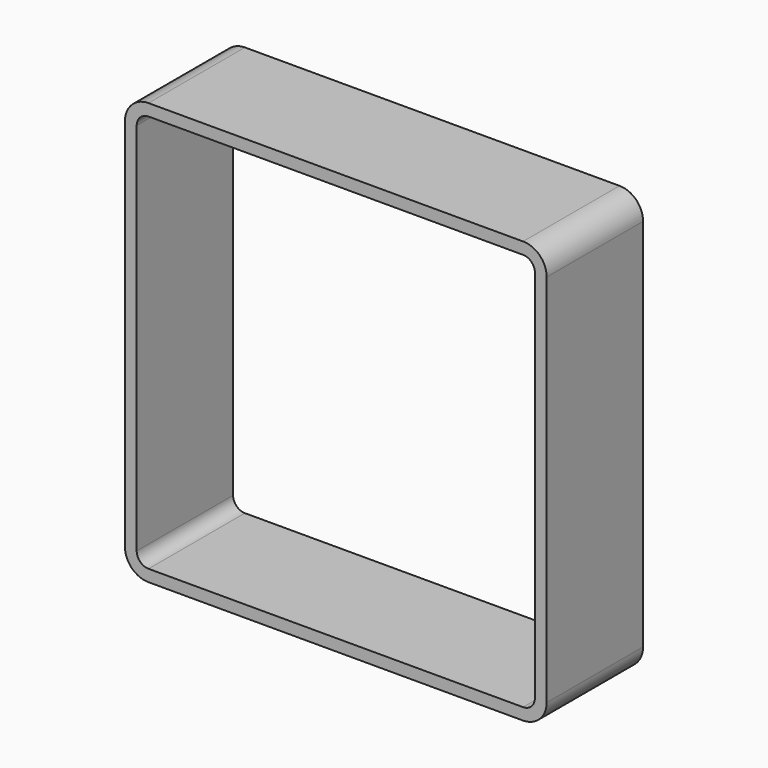
from build123d import *

# Parameters (mm, degrees)
F1_DEPTH = 12.7


with BuildPart() as f1:
    # F0 (on Front) → F1 (new body)
    with BuildSketch(Plane.XZ):
        with BuildLine():
            ThreePointArc((22.225, 19.7358), (21.49593, 21.49593), (19.7358, 22.225))
            Line((19.7358, 22.225), (-19.7358, 22.225))
            ThreePointArc((-19.7358, 22.225), (-21.49593, 21.49593), (-22.225, 19.7358))
            Line((-22.225, 19.7358), (-22.225, -19.7358))
            ThreePointArc((-22.225, -19.7358), (-21.49593, -21.49593), (-19.7358, -22.225))
            Line((-19.7358, -22.225), (19.7358, -22.225))
            ThreePointArc((19.7358, -22.225), (21.49593, -21.49593), (22.225, -19.7358))
            Line((22.225, -19.7358), (22.225, 19.7358))
        make_face()
        with BuildLine():
            Line((-19.7358, 20.9804), (19.7358, 20.9804))
            ThreePointArc((19.7358, 20.9804), (20.615865, 20.615865), (20.9804, 19.7358))
            Line((20.9804, 19.7358), (20.9804, -19.7358))
            ThreePointArc((20.9804, -19.7358), (20.615865, -20.615865), (19.7358, -20.9804))
            Line((19.7358, -20.9804), (-19.7358, -20.9804))
            ThreePointArc((-19.7358, -20.9804), (-20.615865, -20.615865), (-20.9804, -19.7358))
            Line((-20.9804, -19.7358), (-20.9804, 19.7358))
            ThreePointArc((-20.9804, 19.7358), (-20.615865, 20.615865), (-19.7358, 20.9804))
        make_face(mode=Mode.SUBTRACT)
    extrude(amount=F1_DEPTH)


solid = f1.part
